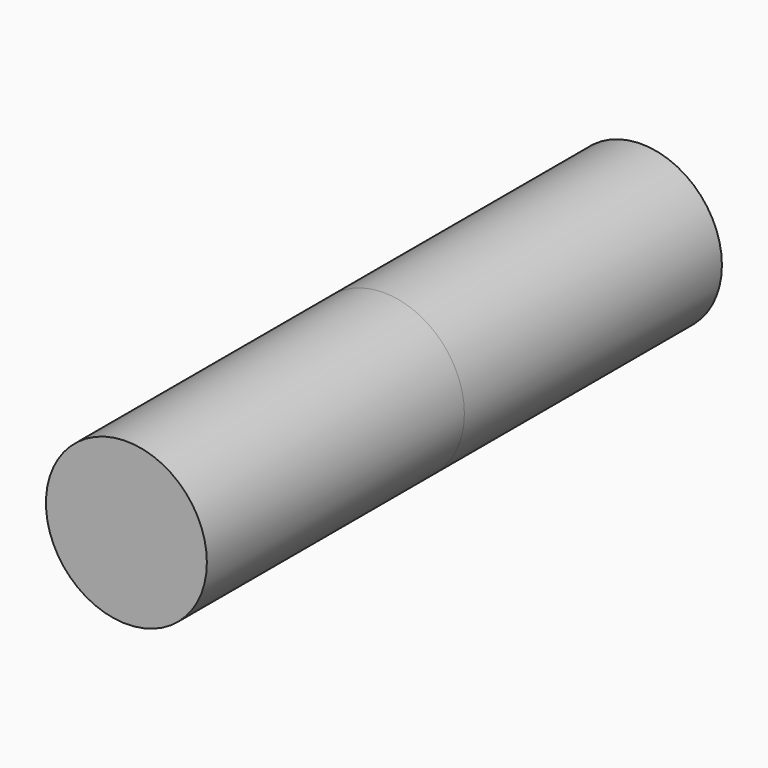
from build123d import *

# Parameters (mm, degrees)
F0_R          = 12.5
F1_DEPTH      = 50
F1_DEPTH_BACK = 50


with BuildPart() as f1:
    # F0 (on Front) → F1 (new body, two sides)
    with BuildSketch(Plane.XZ) as f1_sk:
        with Locations((0, 100)):
            Circle(F0_R)
    extrude(amount=-F1_DEPTH)
    extrude(f1_sk.sketch, amount=F1_DEPTH_BACK)


solid = f1.part
